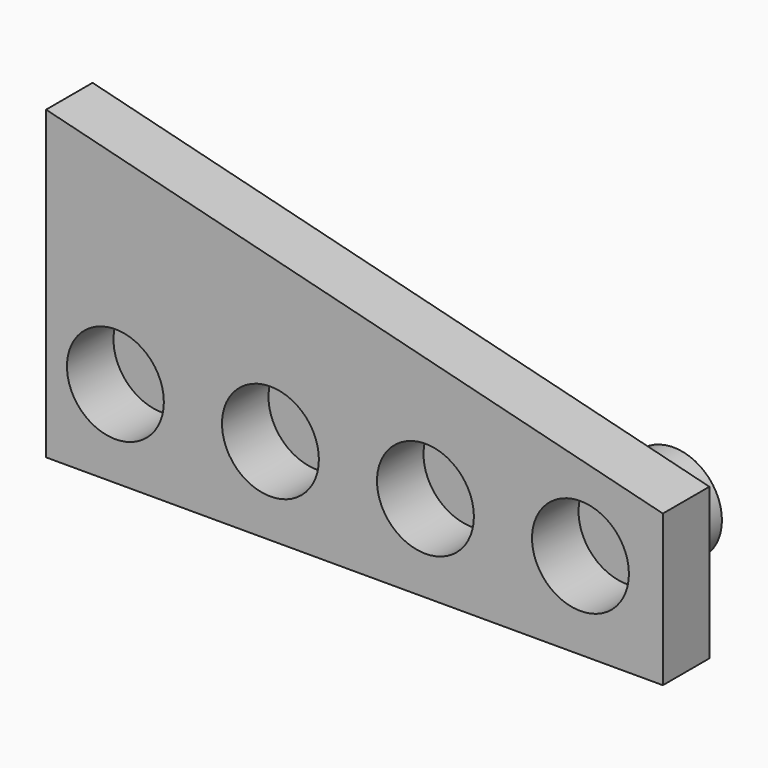
from build123d import *

# Parameters (mm, degrees)
F0_R     = 2.5
F1_DEPTH = 3
F2_DEPTH = 3


with BuildPart() as f1:
    # F0 (on Front) → F1 (new body)
    with BuildSketch(Plane.XZ):
        Polygon((-23.10419, 15.8), (-23.10419, 0), (8.72581, 0), (8.72581, 7.8), align=None)
        with Locations((-19.526565, 4.487517)):
            Circle(F0_R, mode=Mode.SUBTRACT)
        with Locations((-11.526565, 4.487517)):
            Circle(F0_R, mode=Mode.SUBTRACT)
        with Locations((-3.526565, 4.487517)):
            Circle(F0_R, mode=Mode.SUBTRACT)
        with Locations((4.473435, 4.487517)):
            Circle(F0_R, mode=Mode.SUBTRACT)
    extrude(amount=F1_DEPTH)


with BuildPart() as f2:
    # F0 (on Front) → F2 (new body)
    with BuildSketch(Plane.XZ):
        with Locations((-19.526565, 4.487517)):
            Circle(F0_R)
        with Locations((-11.526565, 4.487517)):
            Circle(F0_R)
        with Locations((-3.526565, 4.487517)):
            Circle(F0_R)
        with Locations((4.473435, 4.487517)):
            Circle(F0_R)
    extrude(amount=-F2_DEPTH)


solid = Compound([f1.part, f2.part])
